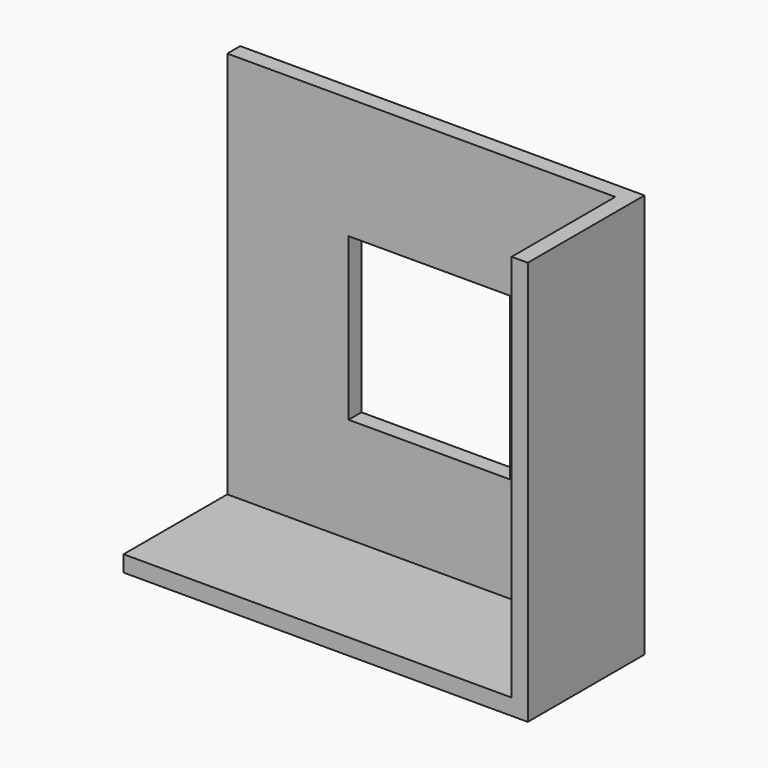
from build123d import *

# Parameters (mm, degrees)
F0_W     = 50
F0_H     = 50
F2_DEPTH = 2
F3_W     = 20
F3_H     = 20
F4_DEPTH = 25
F5_W     = 2
F5_H     = 16.0369578302
F6_DEPTH = 50
F7_W     = 8.7346149244
F7_H     = 2
F8_DEPTH = 48
F9_DEPTH = 7.3023429058


with BuildPart() as f2:
    # F0 (on Front) → F2 (new body)
    with BuildSketch(Plane.XZ):
        with Locations((25, 25)):
            Rectangle(F0_W, F0_H)
    extrude(amount=F2_DEPTH)

    # F3 (on face) → F4 (cut)
    with BuildSketch(Plane.XZ.offset(2)):
        with Locations((25, 25)):
            Rectangle(F3_W, F3_H)
    extrude(amount=-F4_DEPTH, mode=Mode.SUBTRACT)

    # F5 (on face) → F6 (join, through all)
    with BuildSketch(Plane(origin=(0, 0, 0), x_dir=(1, 0, 0), z_dir=(0, 0, -1))):
        with Locations((49, 10.0184789151)):
            Rectangle(F5_W, F5_H)
    extrude(amount=-F6_DEPTH)

    # F7 (on face) → F8 (join, through all)
    with BuildSketch(Plane(origin=(0, 0, 0), x_dir=(0, -1, 0), z_dir=(-1, 0, 0))):
        with Locations((6.3673074622, 1)):
            Rectangle(F7_W, F7_H)
    extrude(amount=-F8_DEPTH)

    # F9 (add, through all): a face of the model
    f9_faces = [f2.faces().sort_by_distance(p)[0] for p in [
        (24, -10.7346149244, 1),
    ]]
    extrude(f9_faces, amount=F9_DEPTH)


solid = f2.part
